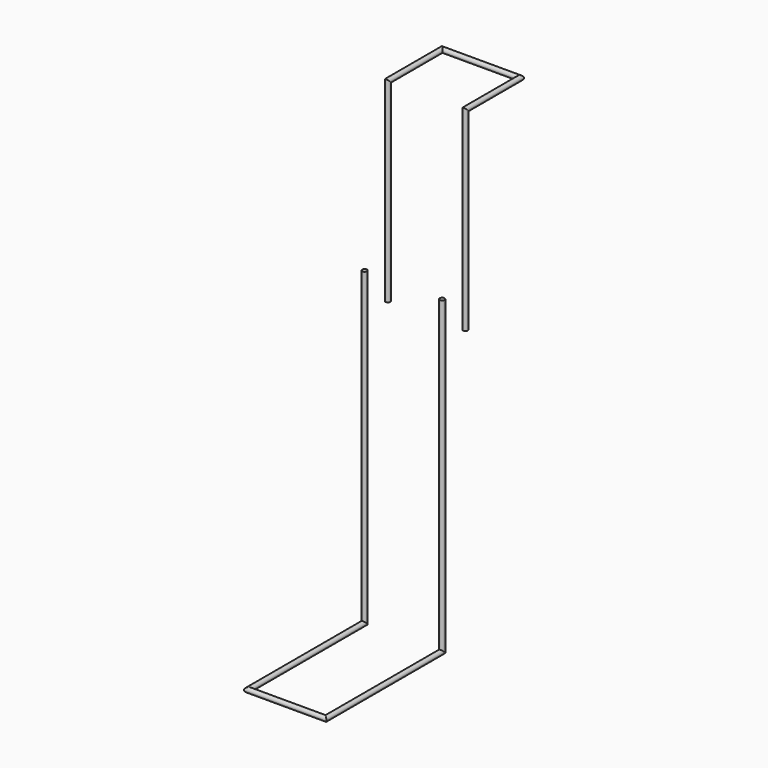
from build123d import *

# Parameters (mm, degrees)
F3_R  = 3.175
F12_R = 3.175


with BuildPart() as f4:
    # F4: sweep along a path in F1, F0, F1
    with BuildLine(Plane.XZ) as f4_path:
        Line((0, 0), (0, -254))
    with BuildLine(Plane.XY) as f4_path_2:
        Line((0, 0), (0, 88.9))
        Line((0, 88.9), (101.6, 88.9))
        Line((101.6, 88.9), (101.6, 0))
    with BuildLine(Plane.XZ) as f4_path_3:
        Line((101.6, 0), (101.6, -254))
    # F3 (on offset) → F4 (sweep)
    with BuildSketch(Plane.XY.offset(-254)):
        Circle(F3_R)
    sweep(path=f4_path.line + f4_path_2.line + f4_path_3.line, transition=Transition.RIGHT)


with BuildPart() as f13:
    # F13: sweep along a path in F8, F10, F8
    with BuildLine(Plane.XZ.offset(38.1)) as f13_path:
        Line((0, -203.2), (0, -609.6))
    with BuildLine(Plane.XY.offset(-609.6)) as f13_path_2:
        Line((0, -38.1), (0, -228.6))
        Line((0, -228.6), (101.6, -228.6))
        Line((101.6, -228.6), (101.6, -38.1))
    with BuildLine(Plane.XZ.offset(38.1)) as f13_path_3:
        Line((101.6, -203.2), (101.6, -609.6))
    # F12 (on offset) → F13 (sweep)
    with BuildSketch(Plane.XY.offset(-203.2)):
        with Locations((0, -38.1)):
            Circle(F12_R)
    sweep(path=f13_path.line + f13_path_2.line + f13_path_3.line, transition=Transition.RIGHT)


solid = Compound([f4.part, f13.part])
